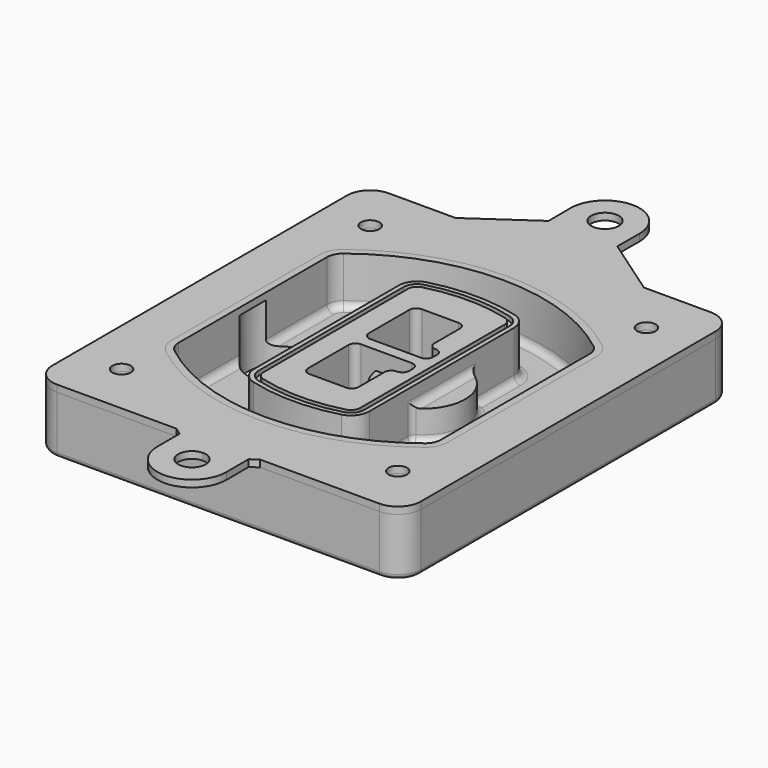
from build123d import *

# Parameters (mm, degrees)
F0_R      = 4
F1_DEPTH  = 25
F2_DEPTH  = 3
F3_DEPTH  = 18
F5_DEPTH  = 21
F6_DEPTH  = 2
F8_DEPTH  = 20
F9_DEPTH  = 16
F10_DEPTH = 25
F7_R      = 6
F7_R_2    = 4
F11_DEPTH = 6
F13_DEPTH = 9
F14_R     = 3
F15_R     = 2
F16_R     = 4
F17_DEPTH = 3


with BuildPart() as f1:
    # F0 (on Top) → F1 (new body)
    with BuildSketch(Plane.XY):
        with BuildLine():
            ThreePointArc((-80, -80), (-77.0710678119, -87.0710678119), (-70, -90))
            Line((-70, -90), (70, -90))
            ThreePointArc((70, -90), (77.0710678119, -87.0710678119), (80, -80))
            Line((80, -80), (80, 80))
            ThreePointArc((80, 80), (77.0710678119, 87.0710678119), (70, 90))
            Line((70, 90), (-70, 90))
            ThreePointArc((-70, 90), (-77.0710678119, 87.0710678119), (-80, 80))
            Line((-80, 80), (-80, -80))
        make_face()
        with Locations((-60, -67.5)):
            Circle(F0_R, mode=Mode.SUBTRACT)
        with Locations((60, -67.5)):
            Circle(F0_R, mode=Mode.SUBTRACT)
        with Locations((-60, 67.5)):
            Circle(F0_R, mode=Mode.SUBTRACT)
        with BuildLine():
            ThreePointArc((-64, 40.2934422872), (-62.5820384798, 46.4328484224), (-58.6153846154, 51.3286200352))
            ThreePointArc((-58.6153846154, 51.3286200352), (0, 71.5), (58.6153846154, 51.3286200352))
            ThreePointArc((58.6153846154, 51.3286200352), (62.5820384798, 46.4328484224), (64, 40.2934422872))
            Line((64, 40.2934422872), (64, -40.2934422872))
            ThreePointArc((64, -40.2934422872), (62.5820384798, -46.4328484224), (58.6153846154, -51.3286200352))
            ThreePointArc((58.6153846154, -51.3286200352), (0, -71.5), (-58.6153846154, -51.3286200352))
            ThreePointArc((-58.6153846154, -51.3286200352), (-62.5820384798, -46.4328484224), (-64, -40.2934422872))
            Line((-64, -40.2934422872), (-64, 40.2934422872))
        make_face(mode=Mode.SUBTRACT)
        with Locations((60, 67.5)):
            Circle(F0_R, mode=Mode.SUBTRACT)
        with BuildLine():
            ThreePointArc((58.6153846154, 51.3286200352), (0, 71.5), (-58.6153846154, 51.3286200352))
            ThreePointArc((-58.6153846154, 51.3286200352), (-62.5820384798, 46.4328484224), (-64, 40.2934422872))
            Line((-64, 40.2934422872), (-64, -40.2934422872))
            ThreePointArc((-64, -40.2934422872), (-62.5820384798, -46.4328484224), (-58.6153846154, -51.3286200352))
            ThreePointArc((-58.6153846154, -51.3286200352), (0, -71.5), (58.6153846154, -51.3286200352))
            ThreePointArc((58.6153846154, -51.3286200352), (62.5820384798, -46.4328484224), (64, -40.2934422872))
            Line((64, -40.2934422872), (64, 40.2934422872))
            ThreePointArc((64, 40.2934422872), (62.5820384798, 46.4328484224), (58.6153846154, 51.3286200352))
        make_face()
        with BuildLine():
            Line((-60, -40.2934422872), (-60, 40.2934422872))
            ThreePointArc((-60, 40.2934422872), (-58.9871703427, 44.6787323838), (-56.1538461538, 48.1757121072))
            ThreePointArc((-56.1538461538, 48.1757121072), (0, 67.5), (56.1538461538, 48.1757121072))
            ThreePointArc((56.1538461538, 48.1757121072), (58.9871703427, 44.6787323838), (60, 40.2934422872))
            Line((60, 40.2934422872), (60, -40.2934422872))
            ThreePointArc((60, -40.2934422872), (58.9871703427, -44.6787323838), (56.1538461538, -48.1757121072))
            ThreePointArc((56.1538461538, -48.1757121072), (0, -67.5), (-56.1538461538, -48.1757121072))
            ThreePointArc((-56.1538461538, -48.1757121072), (-58.9871703427, -44.6787323838), (-60, -40.2934422872))
        make_face(mode=Mode.SUBTRACT)
        with BuildLine():
            ThreePointArc((-56.1538461538, 48.1757121072), (-58.9871703427, 44.6787323838), (-60, 40.2934422872))
            Line((-60, 40.2934422872), (-60, -40.2934422872))
            ThreePointArc((-60, -40.2934422872), (-58.9871703427, -44.6787323838), (-56.1538461538, -48.1757121072))
            ThreePointArc((-56.1538461538, -48.1757121072), (0, -67.5), (56.1538461538, -48.1757121072))
            ThreePointArc((56.1538461538, -48.1757121072), (58.9871703427, -44.6787323838), (60, -40.2934422872))
            Line((60, -40.2934422872), (60, 40.2934422872))
            ThreePointArc((60, 40.2934422872), (58.9871703427, 44.6787323838), (56.1538461538, 48.1757121072))
            ThreePointArc((56.1538461538, 48.1757121072), (0, 67.5), (-56.1538461538, 48.1757121072))
        make_face()
        with BuildLine():
            ThreePointArc((54.3076923077, 45.8110311612), (56.2910192399, 43.3631453548), (57, 40.2934422872))
            Line((57, 40.2934422872), (57, -40.2934422872))
            ThreePointArc((57, -40.2934422872), (56.2910192399, -43.3631453548), (54.3076923077, -45.8110311612))
            ThreePointArc((54.3076923077, -45.8110311612), (0, -64.5), (-54.3076923077, -45.8110311612))
            ThreePointArc((-54.3076923077, -45.8110311612), (-56.2910192399, -43.3631453548), (-57, -40.2934422872))
            Line((-57, -40.2934422872), (-57, 40.2934422872))
            ThreePointArc((-57, 40.2934422872), (-56.2910192399, 43.3631453548), (-54.3076923077, 45.8110311612))
            ThreePointArc((-54.3076923077, 45.8110311612), (0, 64.5), (54.3076923077, 45.8110311612))
        make_face(mode=Mode.SUBTRACT)
        with BuildLine():
            Line((57, -40.2934422872), (57, 40.2934422872))
            ThreePointArc((57, 40.2934422872), (56.2910192399, 43.3631453548), (54.3076923077, 45.8110311612))
            ThreePointArc((54.3076923077, 45.8110311612), (0, 64.5), (-54.3076923077, 45.8110311612))
            ThreePointArc((-54.3076923077, 45.8110311612), (-56.2910192399, 43.3631453548), (-57, 40.2934422872))
            Line((-57, 40.2934422872), (-57, -40.2934422872))
            ThreePointArc((-57, -40.2934422872), (-56.2910192399, -43.3631453548), (-54.3076923077, -45.8110311612))
            ThreePointArc((-54.3076923077, -45.8110311612), (0, -64.5), (54.3076923077, -45.8110311612))
            ThreePointArc((54.3076923077, -45.8110311612), (56.2910192399, -43.3631453548), (57, -40.2934422872))
        make_face()
    extrude(amount=-F1_DEPTH)

    # F0 (on Top) → F2 (join)
    with BuildSketch(Plane.XY):
        with BuildLine():
            ThreePointArc((-56.1538461538, 48.1757121072), (-58.9871703427, 44.6787323838), (-60, 40.2934422872))
            Line((-60, 40.2934422872), (-60, -40.2934422872))
            ThreePointArc((-60, -40.2934422872), (-58.9871703427, -44.6787323838), (-56.1538461538, -48.1757121072))
            ThreePointArc((-56.1538461538, -48.1757121072), (0, -67.5), (56.1538461538, -48.1757121072))
            ThreePointArc((56.1538461538, -48.1757121072), (58.9871703427, -44.6787323838), (60, -40.2934422872))
            Line((60, -40.2934422872), (60, 40.2934422872))
            ThreePointArc((60, 40.2934422872), (58.9871703427, 44.6787323838), (56.1538461538, 48.1757121072))
            ThreePointArc((56.1538461538, 48.1757121072), (0, 67.5), (-56.1538461538, 48.1757121072))
        make_face()
        with BuildLine():
            ThreePointArc((54.3076923077, 45.8110311612), (56.2910192399, 43.3631453548), (57, 40.2934422872))
            Line((57, 40.2934422872), (57, -40.2934422872))
            ThreePointArc((57, -40.2934422872), (56.2910192399, -43.3631453548), (54.3076923077, -45.8110311612))
            ThreePointArc((54.3076923077, -45.8110311612), (0, -64.5), (-54.3076923077, -45.8110311612))
            ThreePointArc((-54.3076923077, -45.8110311612), (-56.2910192399, -43.3631453548), (-57, -40.2934422872))
            Line((-57, -40.2934422872), (-57, 40.2934422872))
            ThreePointArc((-57, 40.2934422872), (-56.2910192399, 43.3631453548), (-54.3076923077, 45.8110311612))
            ThreePointArc((-54.3076923077, 45.8110311612), (0, 64.5), (54.3076923077, 45.8110311612))
        make_face(mode=Mode.SUBTRACT)
    extrude(amount=F2_DEPTH)

    # F0 (on Top) → F3 (cut)
    with BuildSketch(Plane.XY):
        with BuildLine():
            Line((57, -40.2934422872), (57, 40.2934422872))
            ThreePointArc((57, 40.2934422872), (56.2910192399, 43.3631453548), (54.3076923077, 45.8110311612))
            ThreePointArc((54.3076923077, 45.8110311612), (0, 64.5), (-54.3076923077, 45.8110311612))
            ThreePointArc((-54.3076923077, 45.8110311612), (-56.2910192399, 43.3631453548), (-57, 40.2934422872))
            Line((-57, 40.2934422872), (-57, -40.2934422872))
            ThreePointArc((-57, -40.2934422872), (-56.2910192399, -43.3631453548), (-54.3076923077, -45.8110311612))
            ThreePointArc((-54.3076923077, -45.8110311612), (0, -64.5), (54.3076923077, -45.8110311612))
            ThreePointArc((54.3076923077, -45.8110311612), (56.2910192399, -43.3631453548), (57, -40.2934422872))
        make_face()
    extrude(amount=-F3_DEPTH, mode=Mode.SUBTRACT)

    # F4 (on face) → F5 (join, through all)
    with BuildSketch(Plane.XY.offset(3)):
        with BuildLine():
            ThreePointArc((-25, -39.2465276821), (-23.3511545998, -44.1109737193), (-19.0842911877, -46.9702398883))
            ThreePointArc((-19.0842911877, -46.9702398883), (0, -49.5), (19.0842911877, -46.9702398883))
            ThreePointArc((19.0842911877, -46.9702398883), (23.3511545998, -44.1109737193), (25, -39.2465276821))
            Line((25, -39.2465276821), (25, 39.2465276821))
            ThreePointArc((25, 39.2465276821), (23.3511545998, 44.1109737193), (19.0842911877, 46.9702398883))
            ThreePointArc((19.0842911877, 46.9702398883), (0, 49.5), (-19.0842911877, 46.9702398883))
            ThreePointArc((-19.0842911877, 46.9702398883), (-23.3511545998, 44.1109737193), (-25, 39.2465276821))
            Line((-25, 39.2465276821), (-25, -39.2465276821))
        make_face()
        with BuildLine():
            ThreePointArc((18.5632183908, 45.0393118368), (21.7633659499, 42.89486221), (23, 39.2465276821))
            Line((23, 39.2465276821), (23, -39.2465276821))
            ThreePointArc((23, -39.2465276821), (21.7633659499, -42.89486221), (18.5632183908, -45.0393118368))
            ThreePointArc((18.5632183908, -45.0393118368), (0, -47.5), (-18.5632183908, -45.0393118368))
            ThreePointArc((-18.5632183908, -45.0393118368), (-21.7633659499, -42.89486221), (-23, -39.2465276821))
            Line((-23, -39.2465276821), (-23, 39.2465276821))
            ThreePointArc((-23, 39.2465276821), (-21.7633659499, 42.89486221), (-18.5632183908, 45.0393118368))
            ThreePointArc((-18.5632183908, 45.0393118368), (0, 47.5), (18.5632183908, 45.0393118368))
        make_face(mode=Mode.SUBTRACT)
        with BuildLine():
            Line((23, -39.2465276821), (23, 39.2465276821))
            ThreePointArc((23, 39.2465276821), (21.7633659499, 42.89486221), (18.5632183908, 45.0393118368))
            ThreePointArc((18.5632183908, 45.0393118368), (0, 47.5), (-18.5632183908, 45.0393118368))
            ThreePointArc((-18.5632183908, 45.0393118368), (-21.7633659499, 42.89486221), (-23, 39.2465276821))
            Line((-23, 39.2465276821), (-23, -39.2465276821))
            ThreePointArc((-23, -39.2465276821), (-21.7633659499, -42.89486221), (-18.5632183908, -45.0393118368))
            ThreePointArc((-18.5632183908, -45.0393118368), (0, -47.5), (18.5632183908, -45.0393118368))
            ThreePointArc((18.5632183908, -45.0393118368), (21.7633659499, -42.89486221), (23, -39.2465276821))
        make_face()
        with BuildLine():
            ThreePointArc((18.0421455939, 43.1083837852), (20.1755772999, 41.6787507007), (21, 39.2465276821))
            Line((21, 39.2465276821), (21, -39.2465276821))
            ThreePointArc((21, -39.2465276821), (20.1755772999, -41.6787507007), (18.0421455939, -43.1083837852))
            ThreePointArc((18.0421455939, -43.1083837852), (0, -45.5), (-18.0421455939, -43.1083837852))
            ThreePointArc((-18.0421455939, -43.1083837852), (-20.1755772999, -41.6787507007), (-21, -39.2465276821))
            Line((-21, -39.2465276821), (-21, 39.2465276821))
            ThreePointArc((-21, 39.2465276821), (-20.1755772999, 41.6787507007), (-18.0421455939, 43.1083837852))
            ThreePointArc((-18.0421455939, 43.1083837852), (0, 45.5), (18.0421455939, 43.1083837852))
        make_face(mode=Mode.SUBTRACT)
        with BuildLine():
            Line((21, -39.2465276821), (21, 39.2465276821))
            ThreePointArc((21, 39.2465276821), (20.1755772999, 41.6787507007), (18.0421455939, 43.1083837852))
            ThreePointArc((18.0421455939, 43.1083837852), (0, 45.5), (-18.0421455939, 43.1083837852))
            ThreePointArc((-18.0421455939, 43.1083837852), (-20.1755772999, 41.6787507007), (-21, 39.2465276821))
            Line((-21, 39.2465276821), (-21, -39.2465276821))
            ThreePointArc((-21, -39.2465276821), (-20.1755772999, -41.6787507007), (-18.0421455939, -43.1083837852))
            ThreePointArc((-18.0421455939, -43.1083837852), (0, -45.5), (18.0421455939, -43.1083837852))
            ThreePointArc((18.0421455939, -43.1083837852), (20.1755772999, -41.6787507007), (21, -39.2465276821))
        make_face()
        with BuildLine():
            Line((-8, -2.5), (14, -2.5))
            ThreePointArc((14, -2.5), (16.1213203436, -3.3786796564), (17, -5.5))
            Line((17, -5.5), (17, -7.5))
            ThreePointArc((17, -7.5), (16.1213203436, -9.6213203436), (14, -10.5))
            ThreePointArc((14, -10.5), (11.8786796564, -11.3786796564), (11, -13.5))
            Line((11, -13.5), (11, -27.5))
            ThreePointArc((11, -27.5), (10.1213203436, -29.6213203436), (8, -30.5))
            Line((8, -30.5), (-8, -30.5))
            ThreePointArc((-8, -30.5), (-10.1213203436, -29.6213203436), (-11, -27.5))
            Line((-11, -27.5), (-11, -5.5))
            ThreePointArc((-11, -5.5), (-10.1213203436, -3.3786796564), (-8, -2.5))
        make_face(mode=Mode.SUBTRACT)
        with BuildLine():
            ThreePointArc((-8, 2.5), (-10.1213203436, 3.3786796564), (-11, 5.5))
            Line((-11, 5.5), (-11, 27.5))
            ThreePointArc((-11, 27.5), (-10.1213203436, 29.6213203436), (-8, 30.5))
            Line((-8, 30.5), (8, 30.5))
            ThreePointArc((8, 30.5), (10.1213203436, 29.6213203436), (11, 27.5))
            Line((11, 27.5), (11, 13.5))
            ThreePointArc((11, 13.5), (11.8786796564, 11.3786796564), (14, 10.5))
            ThreePointArc((14, 10.5), (16.1213203436, 9.6213203436), (17, 7.5))
            Line((17, 7.5), (17, 5.5))
            ThreePointArc((17, 5.5), (16.1213203436, 3.3786796564), (14, 2.5))
            Line((14, 2.5), (-8, 2.5))
        make_face(mode=Mode.SUBTRACT)
    extrude(amount=-F5_DEPTH)

    # F4 (on face) → F6 (cut)
    with BuildSketch(Plane.XY.offset(3)):
        with BuildLine():
            Line((23, -39.2465276821), (23, 39.2465276821))
            ThreePointArc((23, 39.2465276821), (21.7633659499, 42.89486221), (18.5632183908, 45.0393118368))
            ThreePointArc((18.5632183908, 45.0393118368), (0, 47.5), (-18.5632183908, 45.0393118368))
            ThreePointArc((-18.5632183908, 45.0393118368), (-21.7633659499, 42.89486221), (-23, 39.2465276821))
            Line((-23, 39.2465276821), (-23, -39.2465276821))
            ThreePointArc((-23, -39.2465276821), (-21.7633659499, -42.89486221), (-18.5632183908, -45.0393118368))
            ThreePointArc((-18.5632183908, -45.0393118368), (0, -47.5), (18.5632183908, -45.0393118368))
            ThreePointArc((18.5632183908, -45.0393118368), (21.7633659499, -42.89486221), (23, -39.2465276821))
        make_face()
        with BuildLine():
            ThreePointArc((18.0421455939, 43.1083837852), (20.1755772999, 41.6787507007), (21, 39.2465276821))
            Line((21, 39.2465276821), (21, -39.2465276821))
            ThreePointArc((21, -39.2465276821), (20.1755772999, -41.6787507007), (18.0421455939, -43.1083837852))
            ThreePointArc((18.0421455939, -43.1083837852), (0, -45.5), (-18.0421455939, -43.1083837852))
            ThreePointArc((-18.0421455939, -43.1083837852), (-20.1755772999, -41.6787507007), (-21, -39.2465276821))
            Line((-21, -39.2465276821), (-21, 39.2465276821))
            ThreePointArc((-21, 39.2465276821), (-20.1755772999, 41.6787507007), (-18.0421455939, 43.1083837852))
            ThreePointArc((-18.0421455939, 43.1083837852), (0, 45.5), (18.0421455939, 43.1083837852))
        make_face(mode=Mode.SUBTRACT)
    extrude(amount=-F6_DEPTH, mode=Mode.SUBTRACT)

    # F7 (on face) → F8 (join)
    with BuildSketch(Plane(origin=(0, 0, -25), x_dir=(1, 0, 0), z_dir=(0, 0, -1))):
        with BuildLine():
            ThreePointArc((3.28842436, 0), (16.7567035675, 13.4682792075), (30.224982775, 0))
            Line((30.224982775, 0), (35.224982775, 0))
            ThreePointArc((35.224982775, 0), (16.7567035675, 18.4682792075), (-1.71157564, 0))
            Line((-1.71157564, 0), (3.28842436, 0))
        make_face()
        with BuildLine():
            Line((3.28842436, 0), (30.224982775, 0))
            ThreePointArc((30.224982775, 0), (16.7567035675, 13.4682792075), (3.28842436, 0))
        make_face()
        with BuildLine():
            ThreePointArc((3.28842436, 0), (16.7567035675, -13.4682792075), (30.224982775, 0))
            Line((30.224982775, 0), (3.28842436, 0))
        make_face()
        with BuildLine():
            Line((35.224982775, 0), (30.224982775, 0))
            ThreePointArc((30.224982775, 0), (16.7567035675, -13.4682792075), (3.28842436, 0))
            Line((3.28842436, 0), (-1.71157564, 0))
            ThreePointArc((-1.71157564, 0), (16.7567035675, -18.4682792075), (35.224982775, 0))
        make_face()
    extrude(amount=-F8_DEPTH)

    # F7 (on face) → F9 (cut)
    with BuildSketch(Plane(origin=(0, 0, -25), x_dir=(1, 0, 0), z_dir=(0, 0, -1))):
        with BuildLine():
            Line((3.28842436, 0), (30.224982775, 0))
            ThreePointArc((30.224982775, 0), (16.7567035675, 13.4682792075), (3.28842436, 0))
        make_face()
        with BuildLine():
            ThreePointArc((3.28842436, 0), (16.7567035675, -13.4682792075), (30.224982775, 0))
            Line((30.224982775, 0), (3.28842436, 0))
        make_face()
    extrude(amount=-F9_DEPTH, mode=Mode.SUBTRACT)

    # F7 (on face) → F10 (cut)
    with BuildSketch(Plane(origin=(0, 0, -25), x_dir=(1, 0, 0), z_dir=(0, 0, -1))):
        with BuildLine():
            Line((-59.0318229325, 0), (-32.0952645175, 0))
            ThreePointArc((-32.0952645175, 0), (-45.563543725, 13.4682792075), (-59.0318229325, 0))
        make_face()
        with BuildLine():
            ThreePointArc((-59.0318229325, 0), (-45.563543725, -13.4682792075), (-32.0952645175, 0))
            Line((-32.0952645175, 0), (-59.0318229325, 0))
        make_face()
    extrude(amount=-F10_DEPTH, mode=Mode.SUBTRACT)

    # F7 (on face) → F11 (cut)
    with BuildSketch(Plane(origin=(0, 0, -25), x_dir=(1, 0, 0), z_dir=(0, 0, -1))):
        with Locations((60, -67.5)):
            Circle(F7_R)
        with Locations((60, -67.5)):
            Circle(F7_R_2, mode=Mode.SUBTRACT)
        with Locations((60, -67.5)):
            Circle(F7_R)
        with Locations((60, -67.5)):
            Circle(F7_R_2, mode=Mode.SUBTRACT)
        with Locations((-60, -67.5)):
            Circle(F7_R)
        with Locations((-60, -67.5)):
            Circle(F7_R_2, mode=Mode.SUBTRACT)
        with Locations((-60, -67.5)):
            Circle(F7_R)
        with Locations((-60, -67.5)):
            Circle(F7_R_2, mode=Mode.SUBTRACT)
        with Locations((-60, 67.5)):
            Circle(F7_R)
        with Locations((-60, 67.5)):
            Circle(F7_R_2, mode=Mode.SUBTRACT)
        with Locations((-60, 67.5)):
            Circle(F7_R)
        with Locations((-60, 67.5)):
            Circle(F7_R_2, mode=Mode.SUBTRACT)
        with Locations((60, 67.5)):
            Circle(F7_R)
        with Locations((60, 67.5)):
            Circle(F7_R_2, mode=Mode.SUBTRACT)
        with Locations((60, 67.5)):
            Circle(F7_R)
        with Locations((60, 67.5)):
            Circle(F7_R_2, mode=Mode.SUBTRACT)
    extrude(amount=-F11_DEPTH, mode=Mode.SUBTRACT)

    # F12 (on face) → F13 (cut, through all)
    with BuildSketch(Plane(origin=(0, 0, -9), x_dir=(1, 0, 0), z_dir=(0, 0, -1))):
        with BuildLine():
            Line((11, 13.5), (11, 17.5481537753))
            ThreePointArc((11, 17.5481537753), (2.5696536419, 11.8239143813), (-1.5415842455, 2.5))
            Line((-1.5415842455, 2.5), (3.5224848595, 2.5))
            ThreePointArc((3.5224848595, 2.5), (6.1857188154, 8.3455872281), (11.2536447004, 12.2927168648))
            ThreePointArc((11.2536447004, 12.2927168648), (11.0640958889, 12.8831798879), (11, 13.5))
        make_face()
        with BuildLine():
            ThreePointArc((11.2536447004, -12.2927168648), (6.1857188154, -8.3455872281), (3.5224848595, -2.5))
            Line((3.5224848595, -2.5), (-1.5415842455, -2.5))
            ThreePointArc((-1.5415842455, -2.5), (2.5696536419, -11.8239143813), (11, -17.5481537753))
            Line((11, -17.5481537753), (11, -13.5))
            ThreePointArc((11, -13.5), (11.0640958889, -12.8831798879), (11.2536447004, -12.2927168648))
        make_face()
        with BuildLine():
            ThreePointArc((11.2536447004, 12.2927168648), (6.1857188154, 8.3455872281), (3.5224848595, 2.5))
            Line((3.5224848595, 2.5), (14, 2.5))
            ThreePointArc((14, 2.5), (16.1213203436, 3.3786796564), (17, 5.5))
            Line((17, 5.5), (17, 7.5))
            ThreePointArc((17, 7.5), (16.1213203436, 9.6213203436), (14, 10.5))
            ThreePointArc((14, 10.5), (12.3601599782, 10.9878446101), (11.2536447004, 12.2927168648))
        make_face()
        with BuildLine():
            Line((14, -2.5), (3.5224848595, -2.5))
            ThreePointArc((3.5224848595, -2.5), (6.1857188154, -8.3455872281), (11.2536447004, -12.2927168648))
            ThreePointArc((11.2536447004, -12.2927168648), (12.3601599782, -10.9878446101), (14, -10.5))
            ThreePointArc((14, -10.5), (16.1213203436, -9.6213203436), (17, -7.5))
            Line((17, -7.5), (17, -5.5))
            ThreePointArc((17, -5.5), (16.1213203436, -3.3786796564), (14, -2.5))
        make_face()
    extrude(amount=F13_DEPTH, mode=Mode.SUBTRACT)

    # F14
    f14_edges = [f1.edges().sort_by_distance(p)[0] for p in [
        (-57, -23.703476, -18),
        (-57, 23.703476, -18),
        (25, 0, -5),
        (25, 16.526506, -11.5),
        (25, -16.526506, -11.5),
        (25, -27.886517, -18),
        (35.224983, 0, -18),
    ]]
    fillet(f14_edges, radius=F14_R)

    # F15
    f15_edges = [f1.edges().sort_by_distance(p)[0] for p in [
        (0, -90, -25),
    ]]
    fillet(f15_edges, radius=F15_R)


with BuildPart() as f17:
    # F16 (on face) → F17 (new body, through all)
    with BuildSketch(Plane.XY):
        with BuildLine():
            Line((40.8983565867, 90), (0, 90))
            Line((0, 90), (-40.8983565867, 90))
            Line((-40.8983565867, 90), (-70, 90))
            ThreePointArc((-70, 90), (-77.0710678119, 87.0710678119), (-80, 80))
            Line((-80, 80), (-80, -80))
            ThreePointArc((-80, -80), (-77.0710678119, -87.0710678119), (-70, -90))
            Line((-70, -90), (-18.1879728334, -90))
            Line((-18.1879728334, -90), (0, -90))
            Line((0, -90), (18.1879728334, -90))
            Line((18.1879728334, -90), (70, -90))
            ThreePointArc((70, -90), (77.0710678119, -87.0710678119), (80, -80))
            Line((80, -80), (80, 80))
            ThreePointArc((80, 80), (77.0710678119, 87.0710678119), (70, 90))
            Line((70, 90), (40.8983565867, 90))
        make_face()
        with Locations((-60, -67.5)):
            Circle(F16_R, mode=Mode.SUBTRACT)
        with Locations((60, -67.5)):
            Circle(F16_R, mode=Mode.SUBTRACT)
        with BuildLine():
            ThreePointArc((-60, 40.2934422872), (-58.9871703427, 44.6787323838), (-56.1538461538, 48.1757121072))
            ThreePointArc((-56.1538461538, 48.1757121072), (0, 67.5), (56.1538461538, 48.1757121072))
            ThreePointArc((56.1538461538, 48.1757121072), (58.9871703427, 44.6787323838), (60, 40.2934422872))
            Line((60, 40.2934422872), (60, -40.2934422872))
            ThreePointArc((60, -40.2934422872), (58.9871703427, -44.6787323838), (56.1538461538, -48.1757121072))
            ThreePointArc((56.1538461538, -48.1757121072), (0, -67.5), (-56.1538461538, -48.1757121072))
            ThreePointArc((-56.1538461538, -48.1757121072), (-58.9871703427, -44.6787323838), (-60, -40.2934422872))
            Line((-60, -40.2934422872), (-60, 40.2934422872))
        make_face(mode=Mode.SUBTRACT)
        with Locations((-60, 67.5)):
            Circle(F16_R, mode=Mode.SUBTRACT)
        with Locations((60, 67.5)):
            Circle(F16_R, mode=Mode.SUBTRACT)
        with BuildLine():
            Line((-40.8983565867, 90), (0, 90))
            Line((0, 90), (40.8983565867, 90))
            Line((40.8983565867, 90), (14.9436322972, 108))
            Line((14.9436322972, 108), (15, 120))
            ThreePointArc((15, 120), (0, 135), (-15, 120))
            Line((-15, 120), (-14.9436322972, 108))
            Line((-14.9436322972, 108), (-40.8983565867, 90))
        make_face()
        with BuildLine():
            ThreePointArc((6, 120), (4.2426406871, 115.7573593129), (0, 114))
            ThreePointArc((0, 114), (-4.2426406871, 124.2426406871), (6, 120))
        make_face(mode=Mode.SUBTRACT)
        with BuildLine():
            Line((14.9436322972, -92.25), (18.1879728334, -90))
            Line((18.1879728334, -90), (0, -90))
            Line((0, -90), (-18.1879728334, -90))
            Line((-18.1879728334, -90), (-14.9436322972, -92.25))
            Line((-14.9436322972, -92.25), (-15, -104.25))
            ThreePointArc((-15, -104.25), (0, -119.25), (15, -104.25))
            Line((15, -104.25), (14.9436322972, -92.25))
        make_face()
        with BuildLine():
            ThreePointArc((6, -104.25), (-4.2426406871, -108.4926406871), (0, -98.25))
            ThreePointArc((0, -98.25), (4.2426406871, -100.0073593129), (6, -104.25))
        make_face(mode=Mode.SUBTRACT)
    extrude(amount=F17_DEPTH)


solid = Compound([f1.part, f17.part])
